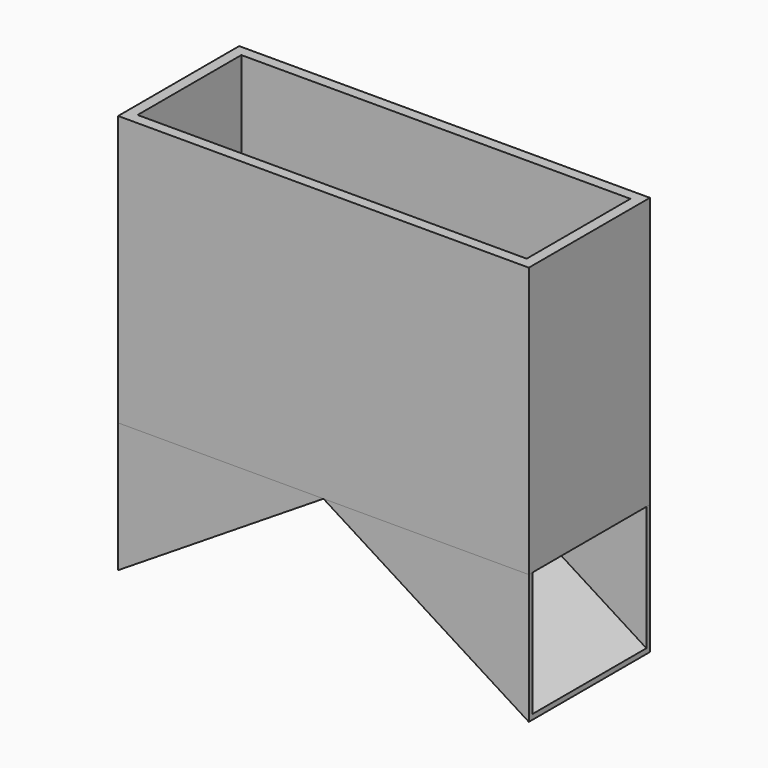
from build123d import *

# Parameters (mm, degrees)
F0_W     = 241.3
F0_H     = 88.9
F1_DEPTH = 158.75
F2_T     = -6.35
F3_DEPTH = 25.4
F5_DEPTH = 88.9
F6_T     = -2.54
F6_2_T   = -2.54


with BuildPart() as f1:
    # F0 (on Top) → F1 (new body)
    with BuildSketch(Plane.XY):
        Rectangle(F0_W, F0_H)
    extrude(amount=F1_DEPTH)

    # F2
    f2_openings = [f1.faces().sort_by_distance(p)[0] for p in [
        (0, 0, 158.75),
    ]]
    offset(amount=F2_T, openings=f2_openings)

    # F3 (cut): a face of the model
    f3_faces = [f1.faces().sort_by_distance(p)[0] for p in [
        (0, 0, 6.35),
    ]]
    extrude(f3_faces, amount=-F3_DEPTH, mode=Mode.SUBTRACT)


with BuildPart() as f5:
    # F4 (on face) → F5 (new body)
    with BuildSketch(Plane.XZ.offset(44.45)):
        Polygon((0, 0), (-120.65, 0), (-120.65, -76.2), align=None)
    extrude(amount=-F5_DEPTH)

    # F6
    f6_openings = [f5.faces().sort_by_distance(p)[0] for p in [
        (-120.65, 0, -38.1),
        (-60.325, 0, 0),
    ]]
    offset(amount=F6_T, openings=f6_openings)


with BuildPart() as f5b:
    # F4 (on face) → F5, piece 2 (new body)
    with BuildSketch(Plane.XZ.offset(44.45)):
        Polygon((120.65, 0), (0, 0), (120.65, -76.2), align=None)
    extrude(amount=-F5_DEPTH)

    # F6#2
    f6_2_openings = [f5b.faces().sort_by_distance(p)[0] for p in [
        (60.325, 0, 0),
        (120.65, 0, -38.1),
    ]]
    offset(amount=F6_2_T, openings=f6_2_openings)


solid = Compound([f1.part, f5.part, f5b.part])
